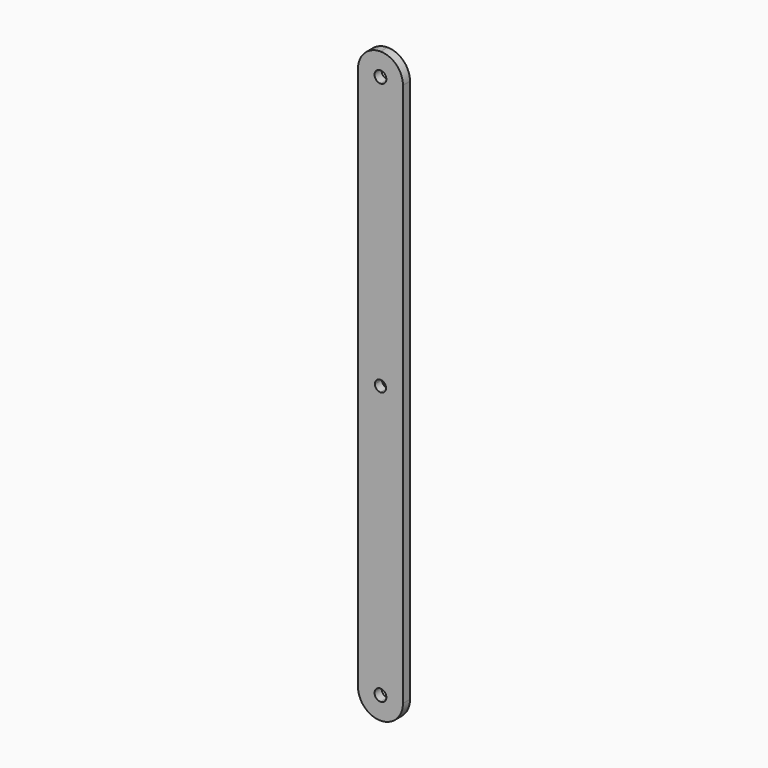
from build123d import *

# Parameters (mm, degrees)
F1_DEPTH = 3


with BuildPart() as f1:
    # F0 (on Front) → F1 (new body)
    with BuildSketch(Plane.XZ):
        with BuildLine():
            ThreePointArc((0, 100), (-5.391689, 97.766689), (-7.625, 92.375))
            Line((-7.625, 92.375), (-7.625, 0))
            Line((-7.625, 0), (-1.885, 0))
            ThreePointArc((-1.885, 0), (-1.332896, 1.332896), (0, 1.885))
            Line((0, 1.885), (0, 90.375))
            ThreePointArc((0, 90.375), (-2, 92.375), (0, 94.375))
            Line((0, 94.375), (0, 100))
        make_face()
        with BuildLine():
            ThreePointArc((7.625, 92.375), (5.391689, 97.766689), (0, 100))
            Line((0, 100), (0, 94.375))
            ThreePointArc((0, 94.375), (1.414214, 93.789214), (2, 92.375))
            ThreePointArc((2, 92.375), (1.414214, 90.960786), (0, 90.375))
            Line((0, 90.375), (0, 1.885))
            ThreePointArc((0, 1.885), (1.332896, 1.332896), (1.885, 0))
            Line((1.885, 0), (7.625, 0))
            Line((7.625, 0), (7.625, 92.375))
        make_face()
        with BuildLine():
            Line((-1.885, 0), (-7.625, 0))
            Line((-7.625, 0), (-7.625, -92.375))
            ThreePointArc((-7.625, -92.375), (-5.391689, -97.766689), (0, -100))
            Line((0, -100), (0, -94.375))
            ThreePointArc((0, -94.375), (-2, -92.375), (0, -90.375))
            Line((0, -90.375), (0, -1.885))
            ThreePointArc((0, -1.885), (-1.332896, -1.332896), (-1.885, 0))
        make_face()
        with BuildLine():
            Line((0, -94.375), (0, -100))
            ThreePointArc((0, -100), (5.391689, -97.766689), (7.625, -92.375))
            Line((7.625, -92.375), (7.625, 0))
            Line((7.625, 0), (1.885, 0))
            ThreePointArc((1.885, 0), (1.332896, -1.332896), (0, -1.885))
            Line((0, -1.885), (0, -90.375))
            ThreePointArc((0, -90.375), (1.414214, -90.960786), (2, -92.375))
            ThreePointArc((2, -92.375), (1.414214, -93.789214), (0, -94.375))
        make_face()
    extrude(amount=F1_DEPTH)


solid = f1.part
